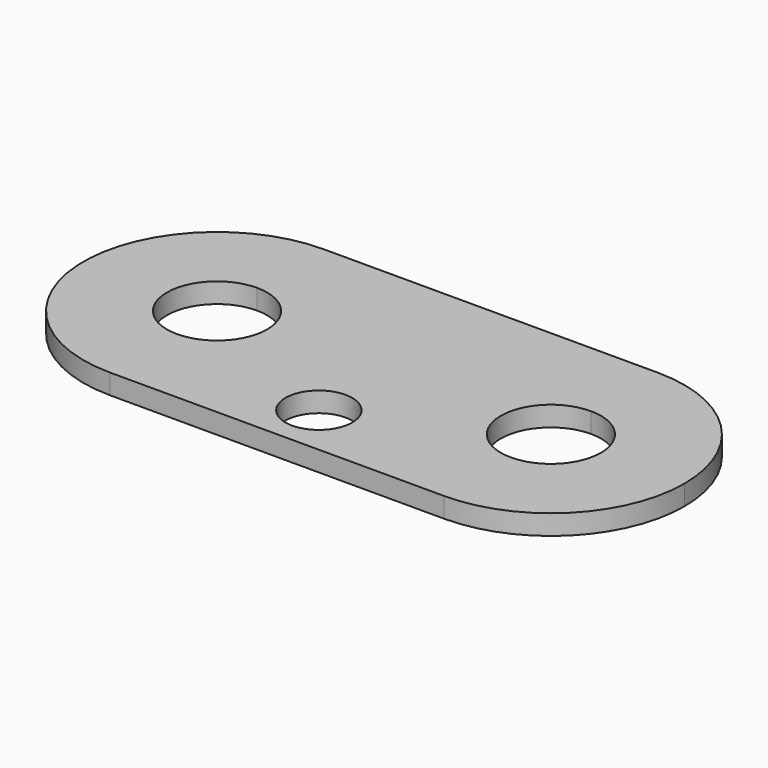
from build123d import *

# Parameters (mm, degrees)
F0_R     = 5
F1_DEPTH = 3


with BuildPart() as f1:
    # F0 (on Top) → F1 (new body)
    with BuildSketch(Plane.XY):
        with BuildLine():
            Line((0, 7.5), (0, 20))
            ThreePointArc((0, 20), (-20, 0), (0, -20))
            Line((0, -20), (0, -7.5))
            ThreePointArc((0, -7.5), (-7.5, 0), (0, 7.5))
        make_face()
        with BuildLine():
            ThreePointArc((17.977528, -8.764045), (19.487824, -4.49719), (20, 0))
            ThreePointArc((20, 0), (14.142136, 14.142136), (0, 20))
            Line((0, 20), (0, 7.5))
            ThreePointArc((0, 7.5), (5.303301, 5.303301), (7.5, 0))
            ThreePointArc((7.5, 0), (5.303301, -5.303301), (0, -7.5))
            Line((0, -7.5), (0, -20))
            ThreePointArc((0, -20), (10.599979, -16.959966), (17.977528, -8.764045))
        make_face()
        with BuildLine():
            ThreePointArc((0, 20), (14.142136, 14.142136), (20, 0))
            ThreePointArc((20, 0), (19.487824, -4.49719), (17.977528, -8.764045))
            ThreePointArc((17.977528, -8.764045), (25, -4.375), (32.022472, -8.764045))
            ThreePointArc((32.022472, -8.764045), (33.040034, 10.599979), (50, 20))
            Line((50, 20), (0, 20))
        make_face()
        with BuildLine():
            ThreePointArc((50, -20), (39.400021, -16.959966), (32.022472, -8.764045))
            ThreePointArc((32.022472, -8.764045), (32.612431, -10.430785), (32.8125, -12.1875))
            ThreePointArc((32.8125, -12.1875), (30.524272, -17.711772), (25, -20))
            Line((25, -20), (50, -20))
        make_face()
        with BuildLine():
            ThreePointArc((32.022472, -8.764045), (25, -4.375), (17.977528, -8.764045))
            ThreePointArc((17.977528, -8.764045), (18.375013, -16.328117), (25, -20))
            ThreePointArc((25, -20), (30.524272, -17.711772), (32.8125, -12.1875))
            ThreePointArc((32.8125, -12.1875), (32.612431, -10.430785), (32.022472, -8.764045))
        make_face()
        with Locations((25, -12.1875)):
            Circle(F0_R, mode=Mode.SUBTRACT)
        with BuildLine():
            ThreePointArc((25, -20), (18.375013, -16.328117), (17.977528, -8.764045))
            ThreePointArc((17.977528, -8.764045), (10.599979, -16.959966), (0, -20))
            Line((0, -20), (25, -20))
        make_face()
        with BuildLine():
            ThreePointArc((70, 0), (64.142136, 14.142136), (50, 20))
            Line((50, 20), (50, 7.5))
            ThreePointArc((50, 7.5), (55.303301, 5.303301), (57.5, 0))
            ThreePointArc((57.5, 0), (55.303301, -5.303301), (50, -7.5))
            Line((50, -7.5), (50, -20))
            ThreePointArc((50, -20), (64.142136, -14.142136), (70, 0))
        make_face()
        with BuildLine():
            Line((50, 7.5), (50, 20))
            ThreePointArc((50, 20), (33.040034, 10.599979), (32.022472, -8.764045))
            ThreePointArc((32.022472, -8.764045), (39.400021, -16.959966), (50, -20))
            Line((50, -20), (50, -7.5))
            ThreePointArc((50, -7.5), (42.5, 0), (50, 7.5))
        make_face()
    extrude(amount=F1_DEPTH)


solid = f1.part
